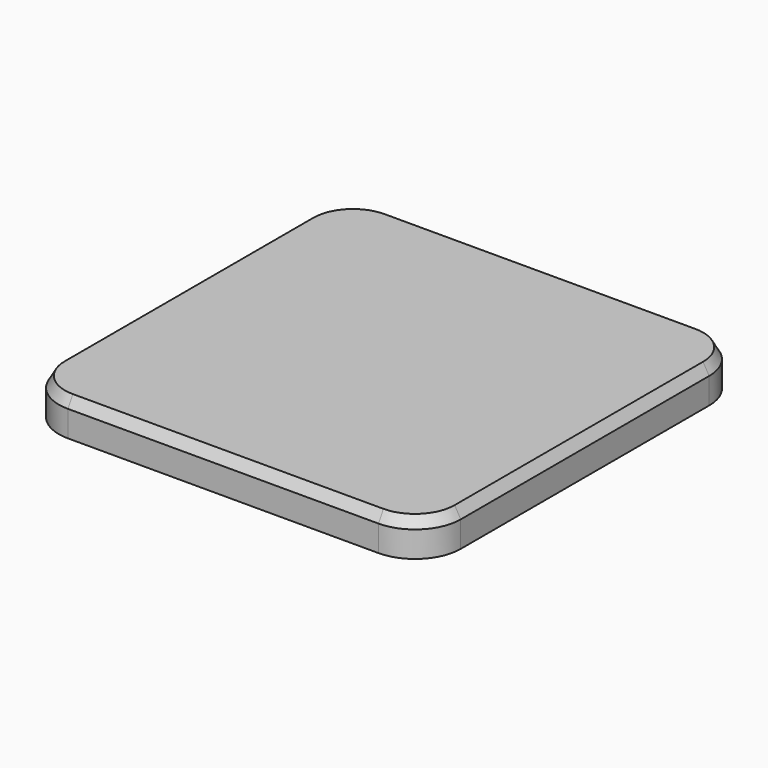
from build123d import *

# Parameters (mm, degrees)
F1_DEPTH = 12
F2_SIZE2 = 3.4641016151
F2_SIZE  = 2
F3_T     = -2.9


with BuildPart() as f1:
    # F0 (on Top) → F1 (new body)
    with BuildSketch(Plane.XY):
        with BuildLine():
            ThreePointArc((-66, -51), (-61.6066017178, -61.6066017178), (-51, -66))
            Line((-51, -66), (51, -66))
            ThreePointArc((51, -66), (61.6066017178, -61.6066017178), (66, -51))
            Line((66, -51), (66, 51))
            ThreePointArc((66, 51), (61.6066017178, 61.6066017178), (51, 66))
            Line((51, 66), (-51, 66))
            ThreePointArc((-51, 66), (-61.6066017178, 61.6066017178), (-66, 51))
            Line((-66, 51), (-66, -51))
        make_face()
    extrude(amount=F1_DEPTH)

    # F2
    f2_edges = [f1.edges().sort_by_distance(p)[0] for p in [
        (0, -66, 12),
    ]]
    f2_side = f1.faces().sort_by_distance((0, 0, 12))[0]
    chamfer(f2_edges, length=F2_SIZE, length2=F2_SIZE2, reference=f2_side)

    # F3
    f3_openings = [f1.faces().sort_by_distance(p)[0] for p in [
        (0, 0, 0),
    ]]
    offset(amount=F3_T, openings=f3_openings)


solid = f1.part
